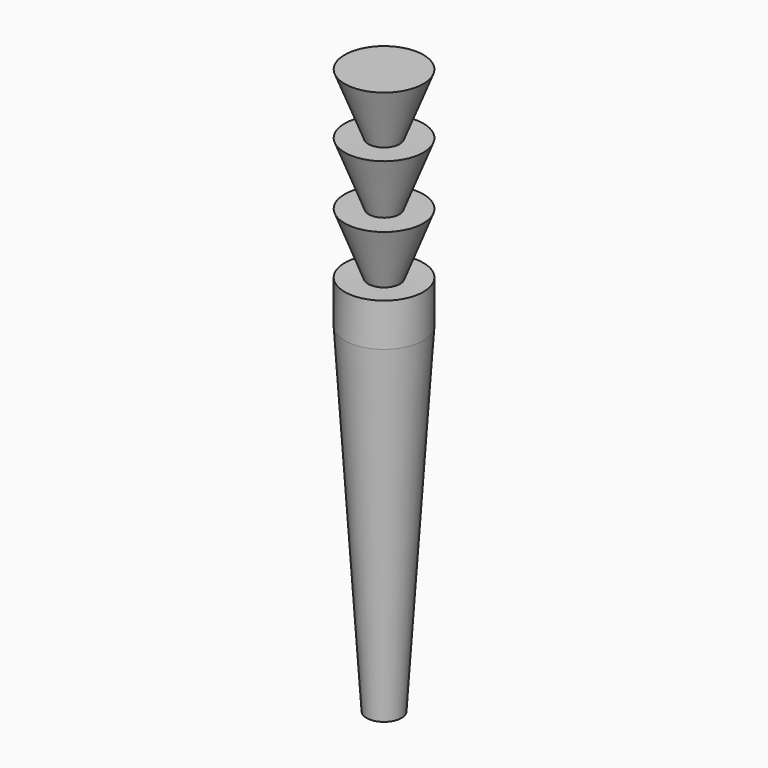
from build123d import *


with BuildPart() as f1:
    # F0 (on Front) → F1 (revolve)
    with BuildSketch(Plane.XZ):
        Polygon((0.9122213819, 21.7714370704), (0, 21.75), (0.6417332352, 21.0656499632), align=None)
        Polygon((0.9122213819, 21.7714370704), (0.6417332352, 21.0656499632), (2.2453571536, 19.3555311361), (2.2453571536, 21.802765568), align=None)
        Polygon((0, 21.75), (0, 19.3911697716), (0.6417332352, 21.0656499632), align=None)
        Polygon((0, 23), (0, 21.75), (0.9122213819, 21.7714370704), (2.2453571536, 25.25), (0.8706285885, 25.25), align=None)
        Polygon((0, 25.25), (0, 23), (0.8706285885, 25.25), align=None)
        Polygon((0, 26.5), (0, 25.25), (0.8706285885, 25.25), (2.2453571536, 28.802765568), (0.8930242929, 28.786892166), align=None)
        Polygon((0, 28.7764100324), (0, 26.5), (0.8930242929, 28.786892166), align=None)
        Polygon((0, 30), (0, 28.7764100324), (0.8930242929, 28.786892166), (2.2453571536, 32.25), (0, 32.25), align=None)
        Polygon((0, 19.3911697716), (0, 0), (1, 0), (2.2453571536, 19.3555311361), (0.6417332352, 21.0656499632), align=None)
    revolve(axis=Axis((0, 0, 15), (0, 0, 1)))


solid = f1.part
